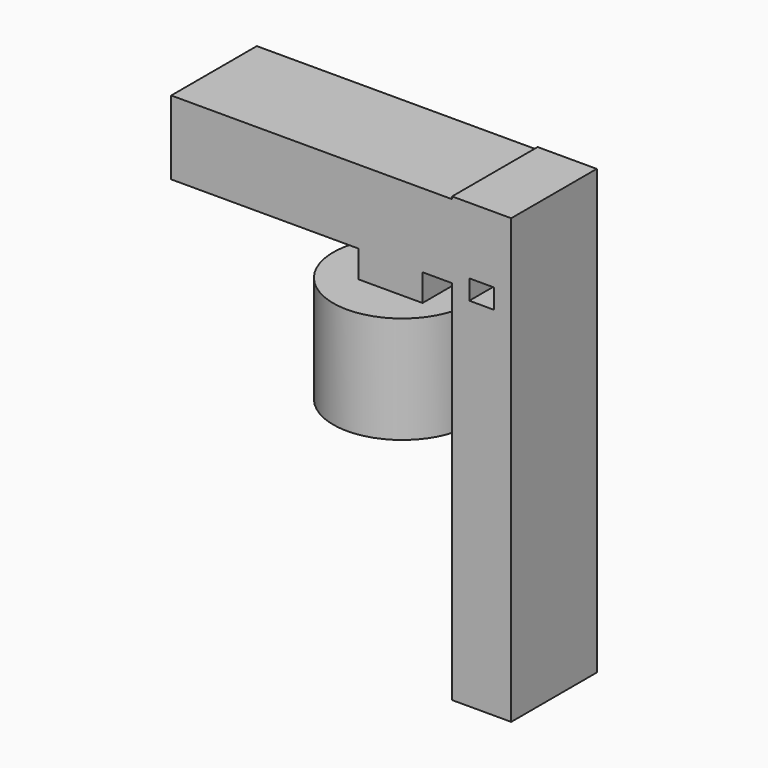
from build123d import *

# Parameters (mm, degrees)
F0_W     = 15.2121409774
F0_H     = 6.4359065145
F0_W_2   = 14.0419714153
F0_H_2   = 69.039709866
F1_DEPTH = 25.4
F2_R     = 16.3927484783
F3_DEPTH = 25.4


with BuildPart() as f1:
    # F0 (on Front) → F1 (new body)
    with BuildSketch(Plane.XZ):
        Polygon((-34.3735795468, 33.3496890962), (-34.3735795468, 35.6900207698), (-38.4691562504, 35.6900207698), (-38.4691562504, 17.5524689257), (-24.4271848351, 17.5524689257), (-24.4271848351, 53.827572614), (-38.4691562504, 53.827572614), (-38.4691562504, 53.2424785197), (-31.4481705427, 53.2424785197), (-31.4481705427, 38.0303524435), (-28.5227615386, 38.0303524435), (-28.5227615386, 33.3496890962), align=None)
        Polygon((-38.4691562504, 35.6900207698), (-34.3735795468, 35.6900207698), (-34.3735795468, 38.0303524435), (-31.4481705427, 38.0303524435), (-31.4481705427, 53.2424785197), (-38.4691562504, 53.2424785197), align=None)
        Polygon((-45.4901456833, 35.6900207698), (-38.4691562504, 35.6900207698), (-38.4691562504, 53.2424785197), (-105.1685363054, 53.2424785197), (-105.1685363054, 35.6900207698), (-60.7022866607, 35.6900207698), (-60.7022866607, 42.1259272844), (-45.4901456833, 42.1259272844), align=None)
        with Locations((-53.096216172, 32.4720675126)):
            Rectangle(F0_W, F0_H)
        with Locations((-53.096216172, 38.9079740271)):
            Rectangle(F0_W, F0_H)
        with Locations((-31.4481705427, -16.9673860073)):
            Rectangle(F0_W_2, F0_H_2)
    extrude(amount=F1_DEPTH)


with BuildPart() as f3:
    # F2 (on Top) → F3 (new body)
    with BuildSketch(Plane.XY):
        with Locations((-59.3893304467, -14.0419751406)):
            Circle(F2_R)
    extrude(amount=F3_DEPTH)


solid = Compound([f1.part, f3.part])
